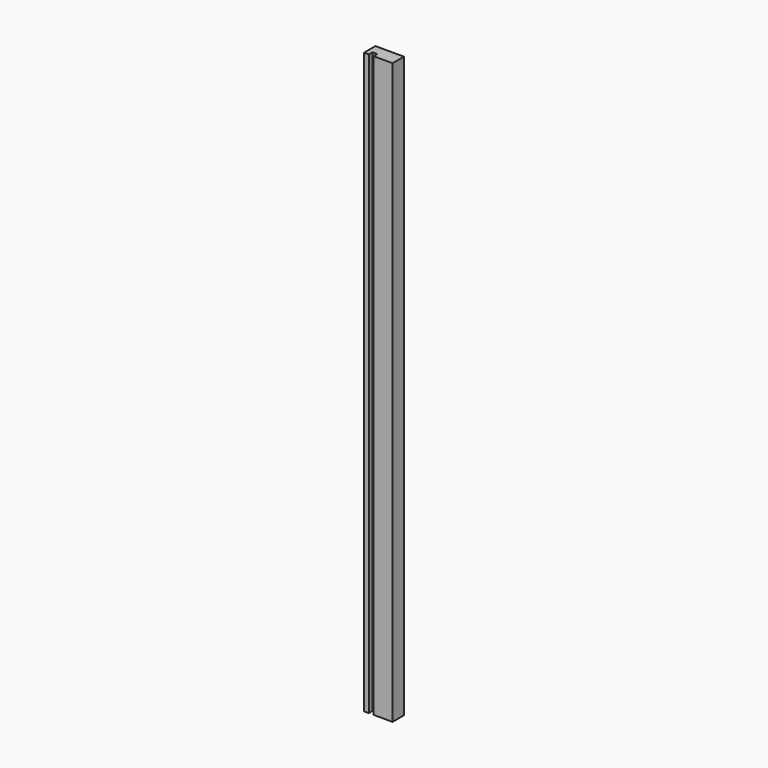
from build123d import *

# Parameters (mm, degrees)
F0_W     = 38.1
F0_H     = 387.35
F1_DEPTH = 9.525
F2_W     = 6.35
F2_H     = 774.7
F3_DEPTH = 6.35


with BuildPart() as f1:
    # F0 (on Front) → F1 (new body, symmetric)
    with BuildSketch(Plane.XZ):
        with Locations((-12.9539953259, 193.675)):
            Rectangle(F0_W, F0_H)
        with Locations((-12.9539953259, -193.675)):
            Rectangle(F0_W, F0_H)
    extrude(amount=F1_DEPTH, both=True)

    # F2 (on face) → F3 (cut)
    with BuildSketch(Plane.XZ.offset(9.525)):
        with Locations((-22.4789953259, 0)):
            Rectangle(F2_W, F2_H)
    extrude(amount=-F3_DEPTH, mode=Mode.SUBTRACT)


solid = f1.part
